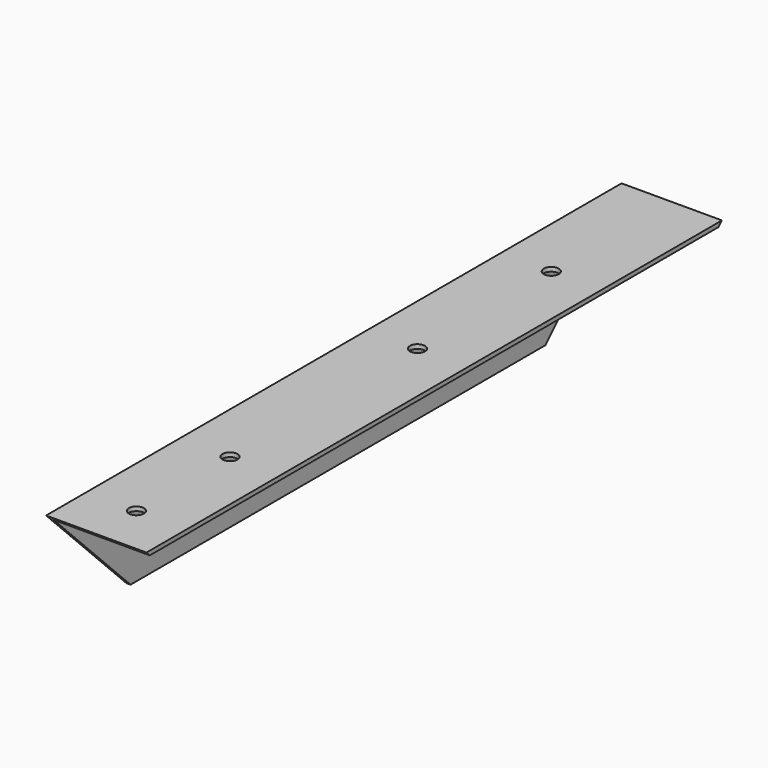
from build123d import *

# Parameters (mm, degrees)
F1_DEPTH = 430
F3_DEPTH = 60.001
F4_R     = 4.5
F5_DEPTH = 60.001


with BuildPart() as f1:
    # F0 (on Front) → F1 (new body)
    with BuildSketch(Plane.XZ):
        Polygon((60, 0), (0, 0), (0, -60), (2.5, -60), (2.5, -2.5), (60, -2.5), align=None)
    extrude(amount=F1_DEPTH)

    # F2 (on face) → F3 (cut, through all)
    with BuildSketch(Plane(origin=(0, 0, 0), x_dir=(0, -1, 0), z_dir=(-1, 0, 0))):
        Polygon((0, 0), (0, -60), (60, -60), align=None)
        Polygon((370, -60), (430, -60), (430, 0), align=None)
    extrude(amount=-F3_DEPTH, mode=Mode.SUBTRACT)

    # F4 (on face) → F5 (cut, through all)
    with BuildSketch(Plane.XY):
        with Locations((30, -90)):
            Circle(F4_R)
        with Locations((30, -190)):
            Circle(F4_R)
        with Locations((30, -330)):
            Circle(F4_R)
        with Locations((30, -400)):
            Circle(F4_R)
    extrude(amount=-F5_DEPTH, mode=Mode.SUBTRACT)


solid = f1.part
